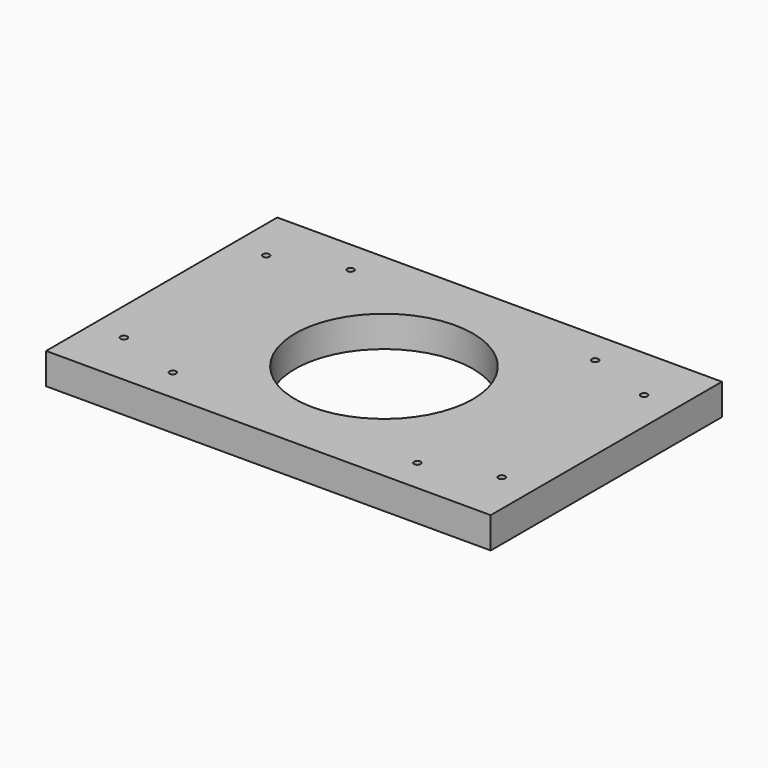
from build123d import *

# Parameters (mm, degrees)
SKETCH_W   = 200
SKETCH_H   = 130
SKETCH_R   = 40
SKETCH_R_2 = 1.5
PAD_DEPTH  = 14


with BuildPart() as part:
    # Sketch → Pad (new body)
    with BuildSketch(Plane.XY):
        with Locations((100, 65)):
            Rectangle(SKETCH_W, SKETCH_H)
        with Locations((100, 65)):
            Circle(SKETCH_R, mode=Mode.SUBTRACT)
        with Locations((45, 115)):
            Circle(SKETCH_R_2, mode=Mode.SUBTRACT)
        with Locations((45, 15)):
            Circle(SKETCH_R_2, mode=Mode.SUBTRACT)
        with Locations((155, 115)):
            Circle(SKETCH_R_2, mode=Mode.SUBTRACT)
        with Locations((155, 15)):
            Circle(SKETCH_R_2, mode=Mode.SUBTRACT)
        with Locations((15, 105)):
            Circle(SKETCH_R_2, mode=Mode.SUBTRACT)
        with Locations((15, 25)):
            Circle(SKETCH_R_2, mode=Mode.SUBTRACT)
        with Locations((185, 105)):
            Circle(SKETCH_R_2, mode=Mode.SUBTRACT)
        with Locations((185, 25)):
            Circle(SKETCH_R_2, mode=Mode.SUBTRACT)
    extrude(amount=PAD_DEPTH)


solid = part.part
